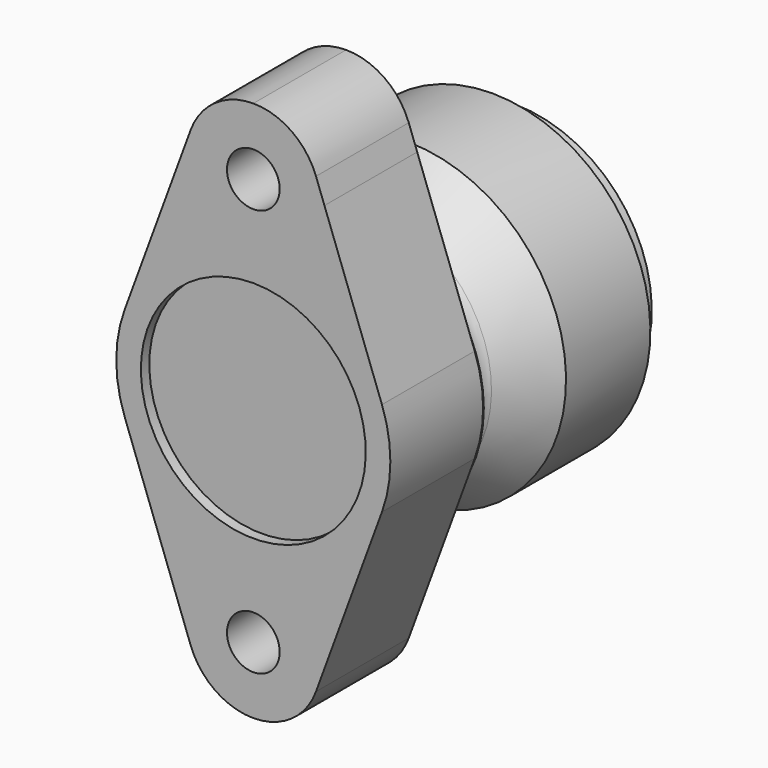
from build123d import *

# Parameters (mm, degrees)
F2_R     = 7.5
F3_DEPTH = 33


with BuildPart() as f1:
    # F0 (on Right) → F1 (revolve)
    with BuildSketch(Plane.YZ):
        with BuildLine():
            Line((3, 0), (21, 0))
            Line((21, 0), (21, 26))
            Line((21, 26), (63, 26))
            Line((63, 26), (63, 29))
            Line((63, 29), (93, 31))
            Line((93, 31), (93, 39))
            Line((93, 39), (85, 39))
            Line((85, 39), (85, 45))
            Line((85, 45), (55, 45))
            Line((55, 45), (40.8678821818, 35.1045845728))
            ThreePointArc((40.8678821818, 35.1045845728), (35.6912569338, 34.7652906284), (33, 39.2003447942))
            Line((33, 39.2003447942), (33, 39))
            Line((33, 39), (0, 39))
            Line((0, 39), (0, 32))
            Line((0, 32), (3, 32))
            Line((3, 32), (3, 0))
        make_face()
    revolve(axis=Axis((0, 12, 0), (0, -1, 0)))

    # F2 (on Front) → F3 (join)
    with BuildSketch(Plane.XZ):
        with BuildLine():
            Line((0, 50.5), (0, 39))
            ThreePointArc((0, 39), (22.3217073874, 31.980328005), (36.6079755837, 13.4482758621))
            Line((36.6079755837, 13.4482758621), (20.2414907731, 58))
            Line((20.2414907731, 58), (7.5, 58))
            ThreePointArc((7.5, 58), (5.3033008589, 52.6966991411), (0, 50.5))
        make_face()
        with BuildLine():
            ThreePointArc((0, 65.5), (5.3033008589, 63.3033008589), (7.5, 58))
            Line((7.5, 58), (20.2414907731, 58))
            Line((20.2414907731, 58), (17.8346547716, 64.5517241379))
            ThreePointArc((17.8346547716, 64.5517241379), (10.874677958, 73.5801597973), (0, 77))
            Line((0, 77), (0, 65.5))
        make_face()
        with BuildLine():
            Line((-20.2414907731, 58), (-7.5, 58))
            ThreePointArc((-7.5, 58), (-5.3033008589, 63.3033008589), (0, 65.5))
            Line((0, 65.5), (0, 77))
            ThreePointArc((0, 77), (-10.874677958, 73.5801597973), (-17.8346547716, 64.5517241379))
            Line((-17.8346547716, 64.5517241379), (-20.2414907731, 58))
        make_face()
        with BuildLine():
            ThreePointArc((-36.6079755837, 13.4482758621), (-22.3217073874, 31.980328005), (0, 39))
            Line((0, 39), (0, 50.5))
            ThreePointArc((0, 50.5), (-5.3033008589, 52.6966991411), (-7.5, 58))
            Line((-7.5, 58), (-20.2414907731, 58))
            Line((-20.2414907731, 58), (-36.6079755837, 13.4482758621))
        make_face()
        with BuildLine():
            ThreePointArc((36.6079755837, -13.4482758621), (0, -39), (-36.6079755837, -13.4482758621))
            Line((-36.6079755837, -13.4482758621), (-17.8346547716, -64.5517241379))
            ThreePointArc((-17.8346547716, -64.5517241379), (0, -77), (17.8346547716, -64.5517241379))
            Line((17.8346547716, -64.5517241379), (36.6079755837, -13.4482758621))
        make_face()
        with Locations((0, -58)):
            Circle(F2_R, mode=Mode.SUBTRACT)
    extrude(amount=-F3_DEPTH)


solid = f1.part
